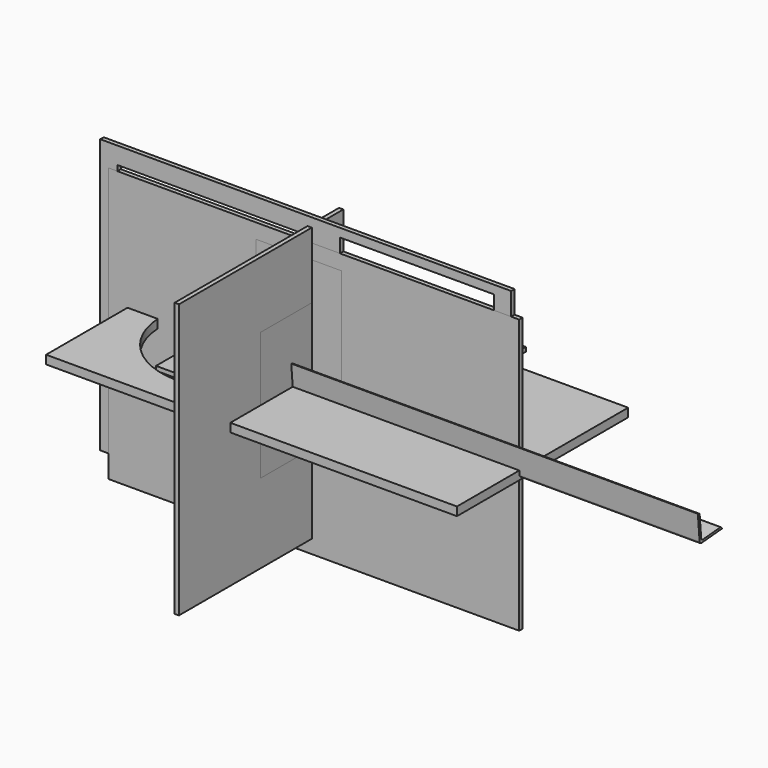
from build123d import *

# Parameters (mm, degrees)
F0_W      = 1219.2
F0_H      = 812.8
F1_DEPTH  = 12.7
F2_W      = 558.8
F2_H      = 609.6
F2_W_2    = 457.2
F2_H_2    = 457.2
F2_H_3    = 279.4
F2_H_4    = 101.6
F3_DEPTH  = 12.701
F4_W      = 609.6
F4_H      = 812.8
F5_DEPTH  = 12.7
F6_W      = 1219.2
F6_H      = 812.8
F7_DEPTH  = 12.7
F8_W      = 1219.2
F8_H      = 635
F9_DEPTH  = 25.4
F10_W     = 609.6
F10_H     = 609.6
F11_DEPTH = 12.7
F12_W     = 457.2
F12_H     = 609.6
F13_DEPTH = 12.7
F14_W     = 584.2
F14_H     = 127
F15_DEPTH = 12.7
F16_W     = 254
F16_H     = 457.2
F17_DEPTH = 12.7
F19_DEPTH = 1219.2
F20_W     = 381
F20_H     = 381
F21_DEPTH = 12.7
F22_R     = 228.6
F23_DEPTH = 465.9623922819


with BuildPart() as f1:
    # F0 (on Front) → F1 (new body)
    with BuildSketch(Plane.XZ):
        with Locations((-5.3532924503, 32.8135361745)):
            Rectangle(F0_W, F0_H)
    extrude(amount=F1_DEPTH)

    # F2 (on face) → F3 (cut, through all)
    with BuildSketch(Plane.XZ.offset(12.7)):
        with Locations((-284.7532924503, -43.3864638255)):
            Rectangle(F2_W, F2_H)
        with Locations((324.8467075497, -119.5864638255)):
            Rectangle(F2_W_2, F2_H_2)
        with Locations((324.8467075497, 274.1135361745)):
            Rectangle(F2_W_2, F2_H_3)
        with Locations((-284.7532924503, 337.6135361745)):
            Rectangle(F2_W, F2_H_4)
    extrude(amount=-F3_DEPTH, mode=Mode.SUBTRACT)


with BuildPart() as f5:
    # F4 (on Right) → F5 (new body)
    with BuildSketch(Plane.YZ):
        with Locations((-200.5230661683, 5.9320246801)):
            Rectangle(F4_W, F4_H)
    extrude(amount=F5_DEPTH)


with BuildPart() as f7:
    # F6 (on Front) → F7 (new body)
    with BuildSketch(Plane.XZ):
        with Locations((18.6641775072, -34.1613922819)):
            Rectangle(F6_W, F6_H)
    extrude(amount=F7_DEPTH)


with BuildPart() as f9:
    # F8 (on Top) → F9 (new body)
    with BuildSketch(Plane.XY):
        with Locations((75.5549373063, 2.7489876375)):
            Rectangle(F8_W, F8_H)
    extrude(amount=F9_DEPTH)

    # F22 (on face) → F23 (cut, through all)
    with BuildSketch(Plane.XY.offset(25.4)):
        with Locations((-216.5450626937, 2.7489876375)):
            Circle(F22_R)
    extrude(amount=-F23_DEPTH, mode=Mode.SUBTRACT)


with BuildPart() as f11:
    # F10 (on Top) → F11 (new body)
    with BuildSketch(Plane.XY):
        with Locations((-10.5619002134, 124.5714095004)):
            Rectangle(F10_W, F10_H)
    extrude(amount=F11_DEPTH)


with BuildPart() as f13:
    # F12 (on Top) → F13 (new body)
    with BuildSketch(Plane.XY):
        with Locations((-25.8983550593, 139.591619166)):
            Rectangle(F12_W, F12_H)
    extrude(amount=F13_DEPTH)


with BuildPart() as f15:
    # F14 (on Front) → F15 (new body)
    with BuildSketch(Plane.XZ):
        with Locations((-34.0006332844, -51.2215328759)):
            Rectangle(F14_W, F14_H)
    extrude(amount=F15_DEPTH)


with BuildPart() as f17:
    # F16 (on Front) → F17 (new body)
    with BuildSketch(Plane.XZ):
        with Locations((-25.6207156926, 99.5913136868)):
            Rectangle(F16_W, F16_H)
    extrude(amount=F17_DEPTH)


with BuildPart() as f19:
    # F18 (on Right) → F19 (new body)
    with BuildSketch(Plane.YZ):
        with BuildLine():
            Line((-76.4639118931, 19.0940284041), (-81.8868883565, 82.3620402764))
            ThreePointArc((-81.8868883565, 82.3620402764), (-84.1234278641, 86.6769289959), (-88.75598719, 88.1465438173))
            Line((-88.75598719, 88.1465438173), (-82.248415434, 12.2249295705))
            ThreePointArc((-82.248415434, 12.2249295705), (-80.0118759264, 7.910040851), (-75.3793166005, 6.4404260296))
            Line((-75.3793166005, 6.4404260296), (0.5422976463, 12.9479977856))
            ThreePointArc((0.5422976463, 12.9479977856), (-1.6942418613, 17.2628865051), (-6.3268011872, 18.7325013265))
            Line((-6.3268011872, 18.7325013265), (-69.5948130596, 13.3095248632))
            ThreePointArc((-69.5948130596, 13.3095248632), (-74.2273723855, 14.7791396845), (-76.4639118931, 19.0940284041))
        make_face()
    extrude(amount=F19_DEPTH)


with BuildPart() as f21:
    # F20 (on Right) → F21 (new body)
    with BuildSketch(Plane.YZ):
        with Locations((-11.5746818483, 25.5459176804)):
            Rectangle(F20_W, F20_H)
    extrude(amount=F21_DEPTH)


solid = Compound([f1.part, f5.part, f7.part, f9.part, f11.part, f13.part, f15.part, f17.part, f19.part, f21.part])
